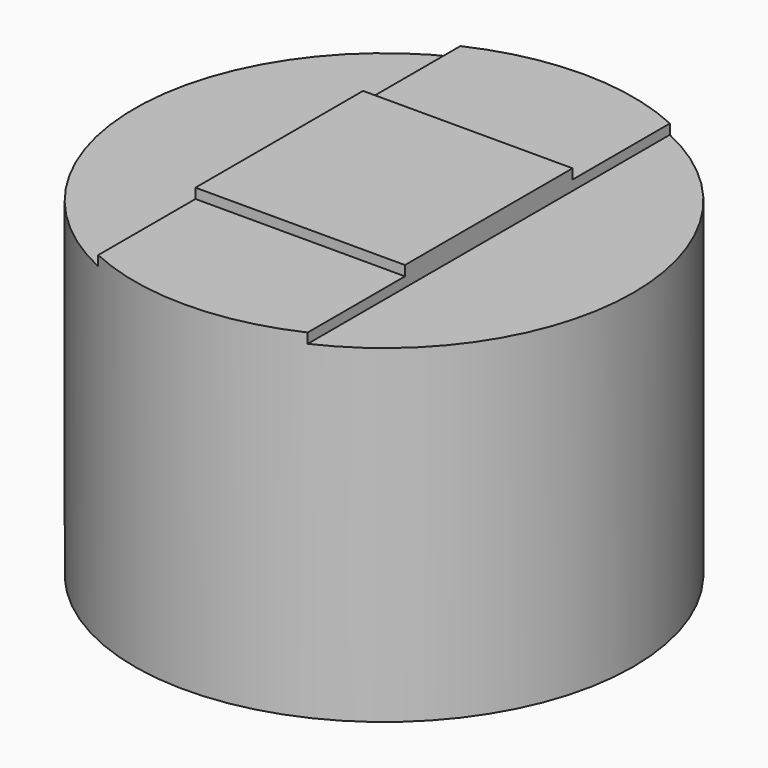
from build123d import *

# Parameters (mm, degrees)
BOX007_W       = 3
BOX007_H       = 10
BOX007_DEPTH   = 0.4
BOX005_W       = 10
BOX005_H       = 3
BOX005_DEPTH   = 0.2
BOX006_W       = 3
BOX006_H       = 10
BOX006_DEPTH   = 0.4
BOX004_W       = 10
BOX004_H       = 3
BOX004_DEPTH   = 0.2
CYLINDER_R     = 5
CYLINDER_DEPTH = 7


with BuildPart() as cube007:
    # Box007 → Box007 (new body)
    with BuildSketch(Plane(origin=(12.1, 5, 1.6), x_dir=(1, 0, 0), z_dir=(0, 0, 1))):
        with Locations((1.5, 5)):
            Rectangle(BOX007_W, BOX007_H)
    extrude(amount=BOX007_DEPTH)


with BuildPart() as cube005:
    # Box005 → Box005 (new body)
    with BuildSketch(Plane(origin=(5, 4.9, 1.8), x_dir=(1, 0, 0), z_dir=(0, 0, 1))):
        with Locations((5, 1.5)):
            Rectangle(BOX005_W, BOX005_H)
    extrude(amount=BOX005_DEPTH)


with BuildPart() as cube006:
    # Box006 → Box006 (new body)
    with BuildSketch(Plane(origin=(4.9, 5, 1.6), x_dir=(1, 0, 0), z_dir=(0, 0, 1))):
        with Locations((1.5, 5)):
            Rectangle(BOX006_W, BOX006_H)
    extrude(amount=BOX006_DEPTH)


with BuildPart() as fusion001:
    # Box004 → Box004 (new body)
    with BuildSketch(Plane(origin=(5, 12.1, 1.8), x_dir=(1, 0, 0), z_dir=(0, 0, 1))):
        with Locations((5, 1.5)):
            Rectangle(BOX004_W, BOX004_H)
    extrude(amount=BOX004_DEPTH)

    # Fusion001: union Cube007, Cube005, Cube006
    add(cube007.part)
    add(cube005.part)
    add(cube006.part)


with BuildPart() as screw_template:
    # Cylinder → Cylinder (new body)
    with BuildSketch(Plane(origin=(10, 10, -5), x_dir=(1, 0, 0), z_dir=(0, 0, 1))):
        Circle(CYLINDER_R)
    extrude(amount=CYLINDER_DEPTH)

    # Cut003: cut Fusion001
    add(fusion001.part, mode=Mode.SUBTRACT)


solid = screw_template.part
